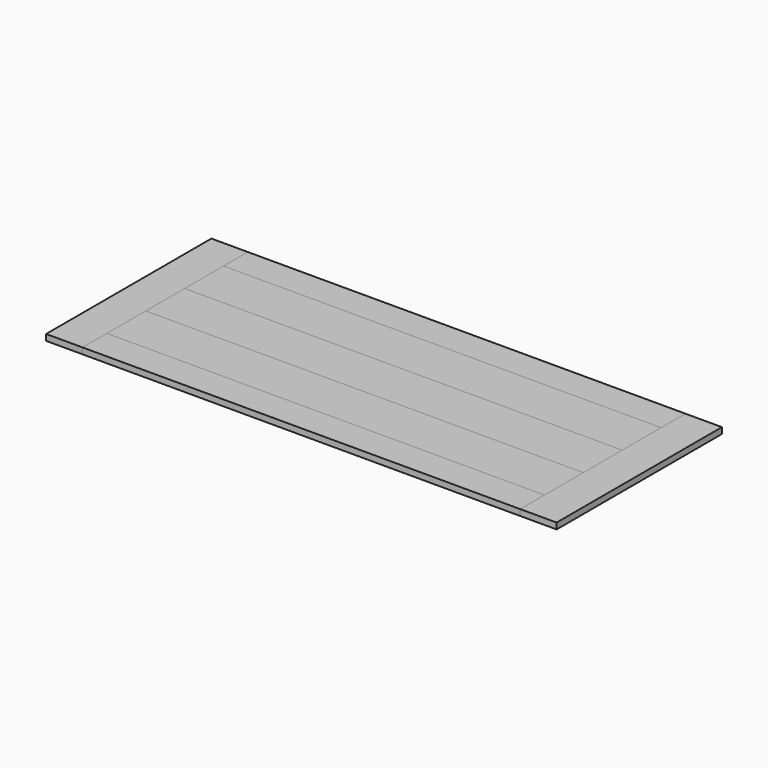
from build123d import *

# Parameters (mm, degrees)
F1_DEPTH = 25.4
F0_W     = 1828.8
F0_H     = 127
F0_H_2   = 203.2
F2_DEPTH = 25.4
F3_DEPTH = 25.4


with BuildPart() as f1:
    # F0 (on Top) → F1 (new body)
    with BuildSketch(Plane.XY):
        Polygon((-1066.8, -431.8), (-914.4, -431.8), (-914.4, -304.8), (-914.4, -101.6), (-914.4, 101.6), (-914.4, 304.8), (-914.4, 431.8), (-1066.8, 431.8), align=None)
        Polygon((914.4, -431.8), (1066.8, -431.8), (1066.8, 431.8), (914.4, 431.8), (914.4, 304.8), (914.4, 101.6), (914.4, -101.6), (914.4, -304.8), align=None)
    extrude(amount=F1_DEPTH)


with BuildPart() as f2:
    # F0 (on Top) → F2 (new body)
    with BuildSketch(Plane.XY):
        with Locations((0, 368.3)):
            Rectangle(F0_W, F0_H)
        Rectangle(F0_W, F0_H_2)
        with Locations((0, -368.3)):
            Rectangle(F0_W, F0_H)
    extrude(amount=F2_DEPTH)


with BuildPart() as f3:
    # F0 (on Top) → F3 (new body)
    with BuildSketch(Plane.XY):
        with Locations((0, 203.2)):
            Rectangle(F0_W, F0_H_2)
        with Locations((0, -203.2)):
            Rectangle(F0_W, F0_H_2)
    extrude(amount=F3_DEPTH)


solid = Compound([f1.part, f2.part, f3.part])
